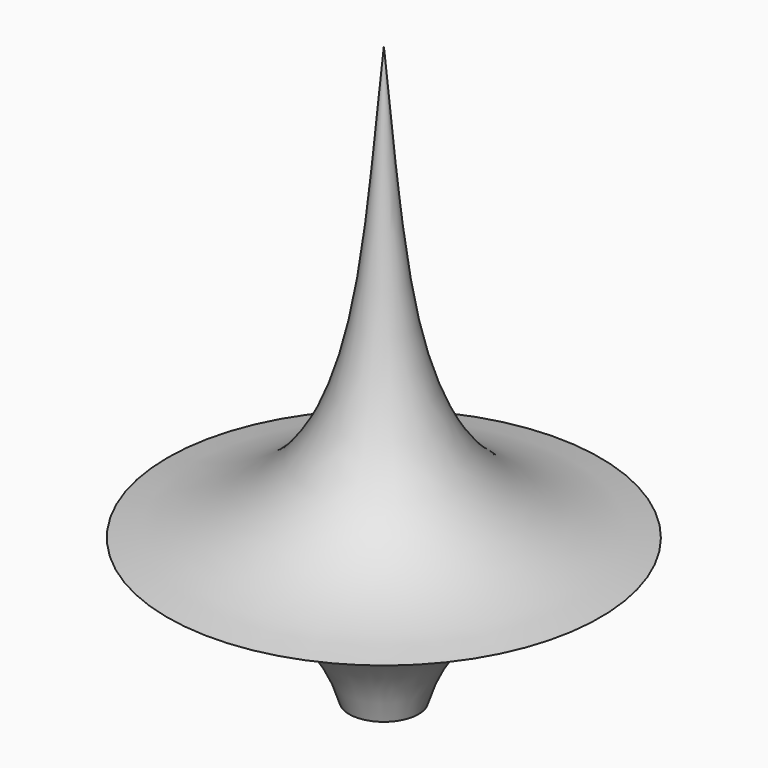
from build123d import *

# Parameters (mm, degrees)
F3_DEPTH = 25.4


with BuildPart() as f1:
    # F0 (on Front) → F1 (revolve)
    with BuildSketch(Plane.XZ):
        with BuildLine():
            Line((0, -12.7), (0, 0))
            Line((0, 0), (-19.05, 0))
            add(Edge.make_bspline(
                [(-19.05, 0), (-11.948236, -2.591184), (-5.159334, -5.022418), (-3.048, -12.7)],
                knots=[0, 0, 0, 0, 20.429244, 20.429244, 20.429244, 20.429244], degree=3))
            Line((-3.048, -12.7), (0, -12.7))
        make_face()
        with BuildLine():
            Line((-19.05, 0), (0, 0))
            Line((0, 0), (0, 38.1))
            add(Edge.make_bspline(
                [(-19.05, 0), (-1.902735, 2.568692), (-2.093009, 15.582794), (0, 38.1)],
                knots=[0, 0, 0, 0, 42.597095, 42.597095, 42.597095, 42.597095], degree=3))
        make_face()
    revolve(axis=Axis((0, 0, -6.35), (0, 0, -1)))

    # F2 (on Top) → F3 (cut)
    with BuildSketch(Plane.XY):
        with BuildLine():
            ThreePointArc((-2.54, 0), (0, -2.54), (2.54, 0))
            ThreePointArc((2.54, 0), (0, 2.54), (-2.54, 0))
        make_face()
    extrude(amount=-F3_DEPTH, mode=Mode.SUBTRACT)


solid = f1.part
